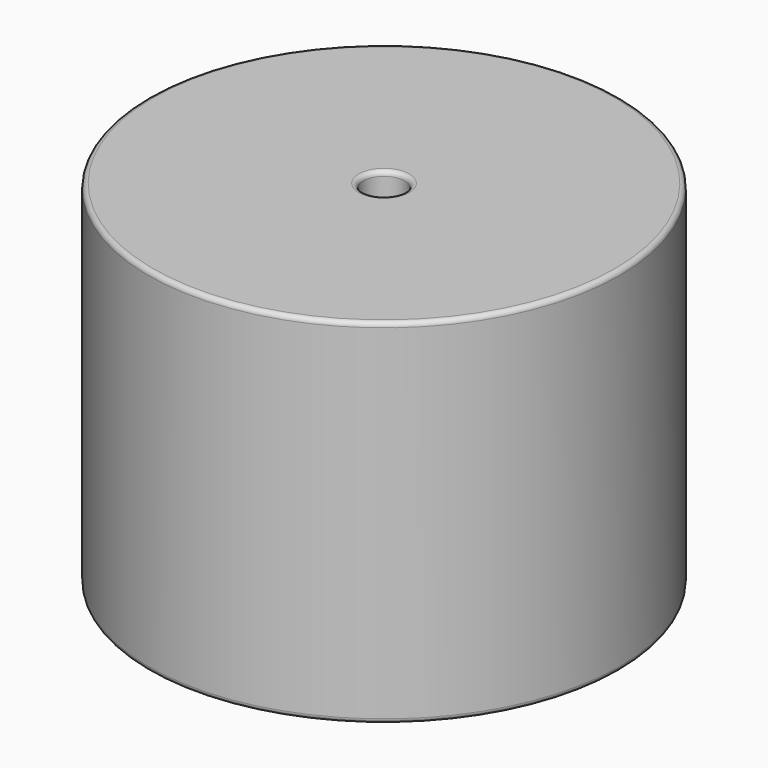
from build123d import *

# Parameters (mm, degrees)
SKETCH001_R       = 1.3
PAD001_DEPTH      = 19.05
PAD001_DEPTH_BACK = 3.5
SKETCH_R          = 25.4
SKETCH_R_2        = 2.225
PAD_DEPTH         = 38.1
FILLET_R          = 0.5


with BuildPart() as pad001:
    # Sketch001 → Pad001 (new body, two sides)
    with BuildSketch(Plane.XY.offset(0.5)) as pad001_sk:
        Circle(SKETCH001_R)
        with Locations((36.32, 0)):
            Circle(SKETCH001_R)
    extrude(amount=PAD001_DEPTH)
    extrude(pad001_sk.sketch, amount=-PAD001_DEPTH_BACK)


with BuildPart() as obj1:
    # Sketch → Pad (new body)
    with BuildSketch(Plane.XY.offset(0.1)):
        with Locations((18.16, 0)):
            Circle(SKETCH_R)
        with Locations((18.16, 0)):
            Circle(SKETCH_R_2, mode=Mode.SUBTRACT)
    extrude(amount=PAD_DEPTH)

    # Fillet
    fillet_edges = [obj1.edges().sort_by_distance(p)[0] for p in [
        (15.935, 0, 38.2),
        (-7.24, 0, 38.2),
        (-7.24, 0, 0.1),
    ]]
    fillet(fillet_edges, radius=FILLET_R)

    # obj1: union Pad001
    add(pad001.part)


solid = obj1.part
